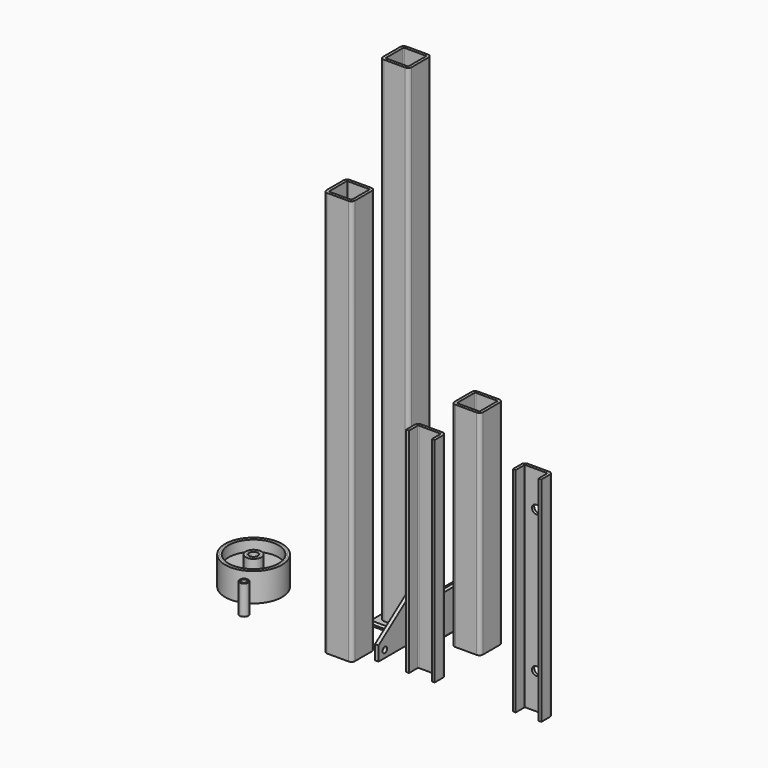
from build123d import *

# Parameters (mm, degrees)
F2_DEPTH  = 695
F3_DEPTH  = 570
F4_DEPTH  = 300
F5_DEPTH  = 300
F1_R      = 4
F6_DEPTH  = 5
F1_W      = 60
F1_H      = 60
F7_SIZE   = 2.5
F10_D     = 12
F0_W      = 60
F0_H      = 60
F0_W_2    = 30
F0_H_2    = 30
F11_DEPTH = 5
F12_SIZE  = 2.5
F13_R     = 8
F13_R_2   = 6
F14_DEPTH = 20
F13_R_3   = 11
F15_DEPTH = 20
F13_R_4   = 35
F16_DEPTH = 5
F13_R_5   = 37.5
F17_DEPTH = 20
F13_R_6   = 40
F18_DEPTH = 20
F13_R_7   = 4
F19_DEPTH = 20.5


with BuildPart() as f2:
    # F0 (on Top) → F2 (new body)
    with BuildSketch(Plane.XY):
        with BuildLine():
            Line((-20.4200784862, 65.6390154362), (-50.4200784862, 65.6390154362))
            ThreePointArc((-50.4200784862, 65.6390154362), (-53.9556123921, 64.1745493421), (-55.4200784862, 60.6390154362))
            Line((-55.4200784862, 60.6390154362), (-55.4200784862, 30.6390154362))
            ThreePointArc((-55.4200784862, 30.6390154362), (-53.9556123921, 27.1034815302), (-50.4200784862, 25.6390154362))
            Line((-50.4200784862, 25.6390154362), (-20.4200784862, 25.6390154362))
            ThreePointArc((-20.4200784862, 25.6390154362), (-16.8845445803, 27.1034815302), (-15.4200784862, 30.6390154362))
            Line((-15.4200784862, 30.6390154362), (-15.4200784862, 60.6390154362))
            ThreePointArc((-15.4200784862, 60.6390154362), (-16.8845445803, 64.1745493421), (-20.4200784862, 65.6390154362))
        make_face()
        with BuildLine():
            Line((-51.4200784862, 30.6390154362), (-51.4200784862, 60.6390154362))
            ThreePointArc((-51.4200784862, 60.6390154362), (-51.1271852674, 61.3461222174), (-50.4200784862, 61.6390154362))
            Line((-50.4200784862, 61.6390154362), (-20.4200784862, 61.6390154362))
            ThreePointArc((-20.4200784862, 61.6390154362), (-19.712971705, 61.3461222174), (-19.4200784862, 60.6390154362))
            Line((-19.4200784862, 60.6390154362), (-19.4200784862, 30.6390154362))
            ThreePointArc((-19.4200784862, 30.6390154362), (-19.712971705, 29.931908655), (-20.4200784862, 29.6390154362))
            Line((-20.4200784862, 29.6390154362), (-50.4200784862, 29.6390154362))
            ThreePointArc((-50.4200784862, 29.6390154362), (-51.1271852674, 29.931908655), (-51.4200784862, 30.6390154362))
        make_face(mode=Mode.SUBTRACT)
    extrude(amount=F2_DEPTH)

    # F0 (on Top) → F11 (join)
    with BuildSketch(Plane.XY):
        with Locations((-35.4200784862, 45.6390154362)):
            Rectangle(F0_W, F0_H)
        with BuildLine():
            ThreePointArc((-55.4200784862, 60.6390154362), (-53.9556123921, 64.1745493421), (-50.4200784862, 65.6390154362))
            Line((-50.4200784862, 65.6390154362), (-20.4200784862, 65.6390154362))
            ThreePointArc((-20.4200784862, 65.6390154362), (-16.8845445803, 64.1745493421), (-15.4200784862, 60.6390154362))
            Line((-15.4200784862, 60.6390154362), (-15.4200784862, 30.6390154362))
            ThreePointArc((-15.4200784862, 30.6390154362), (-16.8845445803, 27.1034815302), (-20.4200784862, 25.6390154362))
            Line((-20.4200784862, 25.6390154362), (-50.4200784862, 25.6390154362))
            ThreePointArc((-50.4200784862, 25.6390154362), (-53.9556123921, 27.1034815302), (-55.4200784862, 30.6390154362))
            Line((-55.4200784862, 30.6390154362), (-55.4200784862, 60.6390154362))
        make_face(mode=Mode.SUBTRACT)
        with BuildLine():
            Line((-20.4200784862, 65.6390154362), (-50.4200784862, 65.6390154362))
            ThreePointArc((-50.4200784862, 65.6390154362), (-53.9556123921, 64.1745493421), (-55.4200784862, 60.6390154362))
            Line((-55.4200784862, 60.6390154362), (-55.4200784862, 30.6390154362))
            ThreePointArc((-55.4200784862, 30.6390154362), (-53.9556123921, 27.1034815302), (-50.4200784862, 25.6390154362))
            Line((-50.4200784862, 25.6390154362), (-20.4200784862, 25.6390154362))
            ThreePointArc((-20.4200784862, 25.6390154362), (-16.8845445803, 27.1034815302), (-15.4200784862, 30.6390154362))
            Line((-15.4200784862, 30.6390154362), (-15.4200784862, 60.6390154362))
            ThreePointArc((-15.4200784862, 60.6390154362), (-16.8845445803, 64.1745493421), (-20.4200784862, 65.6390154362))
        make_face()
        with BuildLine():
            Line((-51.4200784862, 30.6390154362), (-51.4200784862, 60.6390154362))
            ThreePointArc((-51.4200784862, 60.6390154362), (-51.1271852674, 61.3461222174), (-50.4200784862, 61.6390154362))
            Line((-50.4200784862, 61.6390154362), (-20.4200784862, 61.6390154362))
            ThreePointArc((-20.4200784862, 61.6390154362), (-19.712971705, 61.3461222174), (-19.4200784862, 60.6390154362))
            Line((-19.4200784862, 60.6390154362), (-19.4200784862, 30.6390154362))
            ThreePointArc((-19.4200784862, 30.6390154362), (-19.712971705, 29.931908655), (-20.4200784862, 29.6390154362))
            Line((-20.4200784862, 29.6390154362), (-50.4200784862, 29.6390154362))
            ThreePointArc((-50.4200784862, 29.6390154362), (-51.1271852674, 29.931908655), (-51.4200784862, 30.6390154362))
        make_face(mode=Mode.SUBTRACT)
        with BuildLine():
            ThreePointArc((-50.4200784862, 61.6390154362), (-51.1271852674, 61.3461222174), (-51.4200784862, 60.6390154362))
            Line((-51.4200784862, 60.6390154362), (-51.4200784862, 30.6390154362))
            ThreePointArc((-51.4200784862, 30.6390154362), (-51.1271852674, 29.931908655), (-50.4200784862, 29.6390154362))
            Line((-50.4200784862, 29.6390154362), (-20.4200784862, 29.6390154362))
            ThreePointArc((-20.4200784862, 29.6390154362), (-19.712971705, 29.931908655), (-19.4200784862, 30.6390154362))
            Line((-19.4200784862, 30.6390154362), (-19.4200784862, 60.6390154362))
            ThreePointArc((-19.4200784862, 60.6390154362), (-19.712971705, 61.3461222174), (-20.4200784862, 61.6390154362))
            Line((-20.4200784862, 61.6390154362), (-50.4200784862, 61.6390154362))
        make_face()
        with Locations((-35.4200784862, 45.6390154362)):
            Rectangle(F0_W_2, F0_H_2, mode=Mode.SUBTRACT)
        with Locations((-35.4200784862, 45.6390154362)):
            Rectangle(F0_W_2, F0_H_2)
    extrude(amount=-F11_DEPTH)

    # F12
    f12_edges = [f2.edges().sort_by_distance(p)[0] for p in [
        (-5.420078, 45.639015, 0),
        (-35.420078, 15.639015, 0),
        (-35.420078, 75.639015, 0),
        (-65.420078, 45.639015, 0),
    ]]
    chamfer(f12_edges, length=F12_SIZE)


with BuildPart() as f3:
    # F0 (on Top) → F3 (new body)
    with BuildSketch(Plane.XY):
        with BuildLine():
            Line((-20.8921238035, -33.3659774065), (-50.8921238035, -33.3659774065))
            ThreePointArc((-50.8921238035, -33.3659774065), (-54.4276577094, -34.8304435006), (-55.8921238035, -38.3659774065))
            Line((-55.8921238035, -38.3659774065), (-55.8921238035, -68.3659774065))
            ThreePointArc((-55.8921238035, -68.3659774065), (-54.4276577094, -71.9015113124), (-50.8921238035, -73.3659774065))
            Line((-50.8921238035, -73.3659774065), (-20.8921238035, -73.3659774065))
            ThreePointArc((-20.8921238035, -73.3659774065), (-17.3565898976, -71.9015113124), (-15.8921238035, -68.3659774065))
            Line((-15.8921238035, -68.3659774065), (-15.8921238035, -38.3659774065))
            ThreePointArc((-15.8921238035, -38.3659774065), (-17.3565898976, -34.8304435006), (-20.8921238035, -33.3659774065))
        make_face()
        with BuildLine():
            Line((-20.8921238035, -69.3659774065), (-50.8921238035, -69.3659774065))
            ThreePointArc((-50.8921238035, -69.3659774065), (-51.5992305847, -69.0730841877), (-51.8921238035, -68.3659774065))
            Line((-51.8921238035, -68.3659774065), (-51.8921238035, -38.3659774065))
            ThreePointArc((-51.8921238035, -38.3659774065), (-51.5992305847, -37.6588706253), (-50.8921238035, -37.3659774065))
            Line((-50.8921238035, -37.3659774065), (-20.8921238035, -37.3659774065))
            ThreePointArc((-20.8921238035, -37.3659774065), (-20.1850170223, -37.6588706253), (-19.8921238035, -38.3659774065))
            Line((-19.8921238035, -38.3659774065), (-19.8921238035, -68.3659774065))
            ThreePointArc((-19.8921238035, -68.3659774065), (-20.1850170223, -69.0730841877), (-20.8921238035, -69.3659774065))
        make_face(mode=Mode.SUBTRACT)
    extrude(amount=F3_DEPTH)


with BuildPart() as f4:
    # F0 (on Top) → F4 (new body)
    with BuildSketch(Plane.XY):
        with BuildLine():
            Line((79.1078761965, 66.6340225935), (49.1078761965, 66.6340225935))
            ThreePointArc((49.1078761965, 66.6340225935), (45.5723422906, 65.1695564994), (44.1078761965, 61.6340225935))
            Line((44.1078761965, 61.6340225935), (44.1078761965, 31.6340225935))
            ThreePointArc((44.1078761965, 31.6340225935), (45.5723422906, 28.0984886876), (49.1078761965, 26.6340225935))
            Line((49.1078761965, 26.6340225935), (79.1078761965, 26.6340225935))
            ThreePointArc((79.1078761965, 26.6340225935), (82.6434101024, 28.0984886876), (84.1078761965, 31.6340225935))
            Line((84.1078761965, 31.6340225935), (84.1078761965, 61.6340225935))
            ThreePointArc((84.1078761965, 61.6340225935), (82.6434101024, 65.1695564994), (79.1078761965, 66.6340225935))
        make_face()
        with BuildLine():
            Line((79.1078761965, 30.6340225935), (49.1078761965, 30.6340225935))
            ThreePointArc((49.1078761965, 30.6340225935), (48.4007694153, 30.9269158123), (48.1078761965, 31.6340225935))
            Line((48.1078761965, 31.6340225935), (48.1078761965, 61.6340225935))
            ThreePointArc((48.1078761965, 61.6340225935), (48.4007694153, 62.3411293747), (49.1078761965, 62.6340225935))
            Line((49.1078761965, 62.6340225935), (79.1078761965, 62.6340225935))
            ThreePointArc((79.1078761965, 62.6340225935), (79.8149829777, 62.3411293747), (80.1078761965, 61.6340225935))
            Line((80.1078761965, 61.6340225935), (80.1078761965, 31.6340225935))
            ThreePointArc((80.1078761965, 31.6340225935), (79.8149829777, 30.9269158123), (79.1078761965, 30.6340225935))
        make_face(mode=Mode.SUBTRACT)
    extrude(amount=F4_DEPTH)


with BuildPart() as f5:
    # F0 (on Top) → F5 (new body)
    with BuildSketch(Plane.XY):
        with BuildLine():
            ThreePointArc((48.1078761965, -38.3659774065), (48.4007694153, -37.6588706253), (49.1078761965, -37.3659774065))
            Line((49.1078761965, -37.3659774065), (79.1078761965, -37.3659774065))
            ThreePointArc((79.1078761965, -37.3659774065), (79.8149829777, -37.6588706253), (80.1078761965, -38.3659774065))
            Line((80.1078761965, -38.3659774065), (80.1078761965, -53.3659774065))
            Line((80.1078761965, -53.3659774065), (84.1078761965, -53.3659774065))
            Line((84.1078761965, -53.3659774065), (84.1078761965, -38.3659774065))
            ThreePointArc((84.1078761965, -38.3659774065), (82.6434101024, -34.8304435006), (79.1078761965, -33.3659774065))
            Line((79.1078761965, -33.3659774065), (49.1078761965, -33.3659774065))
            ThreePointArc((49.1078761965, -33.3659774065), (45.5723422906, -34.8304435006), (44.1078761965, -38.3659774065))
            Line((44.1078761965, -38.3659774065), (44.1078761965, -53.3659774065))
            Line((44.1078761965, -53.3659774065), (48.1078761965, -53.3659774065))
            Line((48.1078761965, -53.3659774065), (48.1078761965, -38.3659774065))
        make_face()
    extrude(amount=F5_DEPTH)


with BuildPart() as f6:
    # F1 (on Right) → F6 (new body)
    with BuildSketch(Plane.YZ):
        Polygon((-53.0679564238, 20.0108708497), (-53.0679564238, 0), (39.9320435762, 0), (39.9320435762, 66), (9.9320435762, 66), align=None)
        with Locations((-42.0679564238, 10.0054354249)):
            Circle(F1_R, mode=Mode.SUBTRACT)
    extrude(amount=F6_DEPTH)


with BuildPart() as f6b:
    # F1 (on Right) → F6, piece 2 (new body)
    with BuildSketch(Plane.YZ):
        with Locations((87.7593097091, 11.4852010459)):
            Rectangle(F1_W, F1_H)
    extrude(amount=F6_DEPTH)

    # F7
    f7_edges = [f6b.edges().sort_by_distance(p)[0] for p in [
        (5, 87.75931, 41.485201),
        (5, 117.75931, 11.485201),
        (5, 57.75931, 11.485201),
        (5, 87.75931, -18.514799),
    ]]
    chamfer(f7_edges, length=F7_SIZE)


with BuildPart() as f8_1:
    # F8: copy of F5
    add(f5.part.moved(Location((150, 0, 0))))

    # F10 (through all)
    with Locations(Plane(origin=(0, -33.3659774065, 0), x_dir=(-1, 0, 0), z_dir=(0, 1, 0))):
        with Locations((-214.1078761965, 50), (-214.1078761965, 250)):
            Hole(F10_D / 2)


with BuildPart() as f14:
    # F13 (on Top) → F14 (new body, symmetric)
    with BuildSketch(Plane.XY):
        with Locations((-237.4541759491, 30.3866267204)):
            Circle(F13_R)
        with Locations((-237.4541759491, 30.3866267204)):
            Circle(F13_R_2, mode=Mode.SUBTRACT)
    extrude(amount=F14_DEPTH, both=True)


with BuildPart() as f15:
    # F13 (on Top) → F15 (new body, symmetric)
    with BuildSketch(Plane.XY):
        with Locations((-237.4541759491, 30.3866267204)):
            Circle(F13_R_3)
        with Locations((-237.4541759491, 30.3866267204)):
            Circle(F13_R, mode=Mode.SUBTRACT)
    extrude(amount=F15_DEPTH, both=True)

    # F13 (on Top) → F16 (join, symmetric)
    with BuildSketch(Plane.XY):
        with Locations((-237.4541759491, 30.3866267204)):
            Circle(F13_R_4)
        with Locations((-237.4541759491, 30.3866267204)):
            Circle(F13_R_3, mode=Mode.SUBTRACT)
    extrude(amount=F16_DEPTH, both=True)

    # F13 (on Top) → F17 (join, symmetric)
    with BuildSketch(Plane.XY):
        with Locations((-237.4541759491, 30.3866267204)):
            Circle(F13_R_5)
        with Locations((-237.4541759491, 30.3866267204)):
            Circle(F13_R_4, mode=Mode.SUBTRACT)
    extrude(amount=F17_DEPTH, both=True)


with BuildPart() as f18:
    # F13 (on Top) → F18 (new body, symmetric)
    with BuildSketch(Plane.XY):
        with Locations((-237.4541759491, 30.3866267204)):
            Circle(F13_R_6)
        with Locations((-237.4541759491, 30.3866267204)):
            Circle(F13_R_5, mode=Mode.SUBTRACT)
    extrude(amount=F18_DEPTH, both=True)


with BuildPart() as f19:
    # F13 (on Top) → F19 (new body, symmetric)
    with BuildSketch(Plane.XY):
        with Locations((-205.3296715021, -26.6119409353)):
            Circle(F13_R_2)
        with Locations((-205.3296715021, -26.6119409353)):
            Circle(F13_R_7, mode=Mode.SUBTRACT)
    extrude(amount=F19_DEPTH, both=True)


solid = Compound([f2.part, f3.part, f4.part, f5.part, f6.part, f6b.part, f8_1.part, f14.part, f15.part, f18.part, f19.part])
